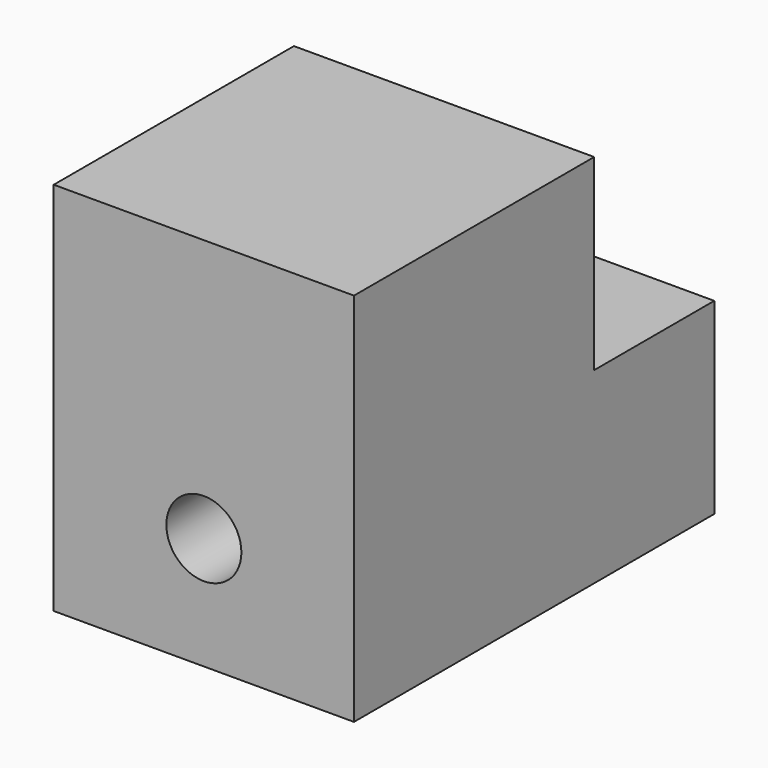
from build123d import *

# Parameters (mm, degrees)
F0_W     = 101.6
F0_H     = 152.4
F1_DEPTH = 127
F2_W     = 101.6
F2_H     = 50.8
F3_DEPTH = 63.5
F4_R     = 12.7
F5_DEPTH = 152.401


with BuildPart() as f1:
    # F0 (on Top) → F1 (new body)
    with BuildSketch(Plane.XY):
        with Locations((-50.8, 76.2)):
            Rectangle(F0_W, F0_H)
    extrude(amount=F1_DEPTH)

    # F2 (on face) → F3 (cut)
    with BuildSketch(Plane.XY.offset(127)):
        with Locations((-50.8, 127)):
            Rectangle(F2_W, F2_H)
    extrude(amount=-F3_DEPTH, mode=Mode.SUBTRACT)

    # F4 (on face) → F5 (cut, through all)
    with BuildSketch(Plane.XZ):
        with Locations((-50.8, 38.1)):
            Circle(F4_R)
    extrude(amount=-F5_DEPTH, mode=Mode.SUBTRACT)


solid = f1.part
